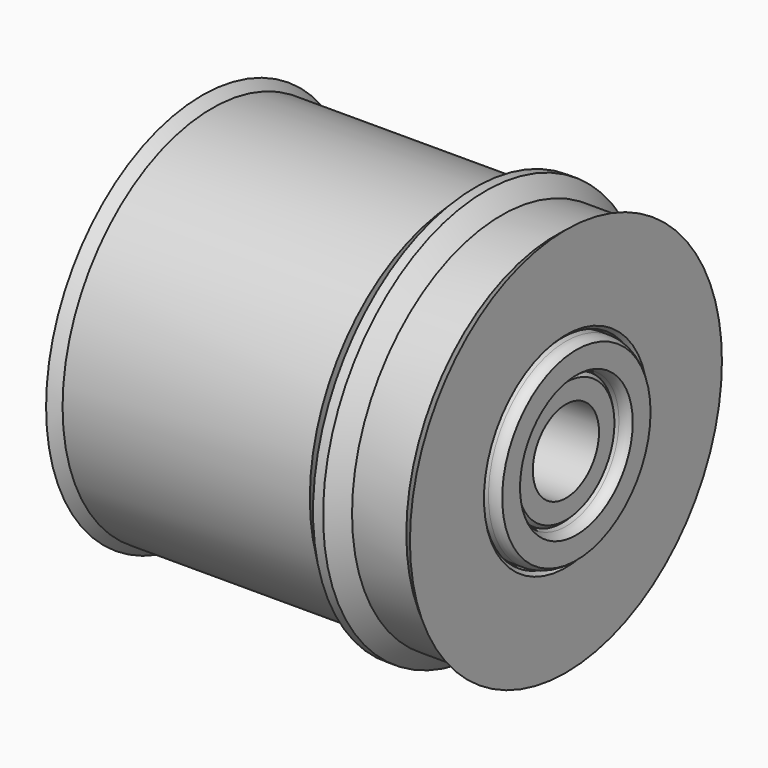
from build123d import *

# Parameters (mm, degrees)
F2_SIZE = 9


with BuildPart() as f1:
    # F0 (on Top) → F1 (revolve)
    with BuildSketch(Plane.XY):
        with BuildLine():
            Line((0, 164.87), (0, 102.87))
            Line((0, 102.87), (905, 102.87))
            Line((905, 102.87), (905, 159.87))
            Line((905, 159.87), (860, 159.87))
            Line((860, 159.87), (860, 245.87))
            Line((860, 245.87), (905, 245.87))
            Line((905, 245.87), (905, 465))
            Line((905, 465), (905, 485))
            Line((905, 485), (880, 465))
            Line((880, 465), (745, 465))
            Line((745, 465), (705, 505))
            Line((705, 505), (680, 505))
            Line((680, 505), (640, 465))
            Line((640, 465), (25, 465))
            Line((25, 465), (0, 485))
            Line((0, 485), (0, 465))
            Line((0, 465), (0, 240.87))
            ThreePointArc((0, 240.87), (-13.980578, 238.204734), (-26, 230.582813))
            Line((-26, 230.582813), (-26, 175.157187))
            ThreePointArc((-26, 175.157187), (-13.980578, 167.535266), (0, 164.87))
        make_face()
        with BuildLine():
            Line((905, 240.87), (869, 240.87))
            Line((869, 240.87), (869, 164.87))
            Line((869, 164.87), (905, 164.87))
            ThreePointArc((905, 164.87), (918.980578, 167.535266), (931, 175.157187))
            Line((931, 175.157187), (931, 230.582813))
            ThreePointArc((931, 230.582813), (918.980578, 238.204734), (905, 240.87))
        make_face()
    revolve(axis=Axis((352.39023, 0, 0), (1, 0, 0)))

    # F2
    f2_edges = [f1.edges().sort_by_distance(p)[0] for p in [
        (905, -245.87, 0),
        (905, -159.87, 0),
        (869, -240.87, 0),
        (869, -164.87, 0),
    ]]
    chamfer(f2_edges, length=F2_SIZE)


solid = f1.part
